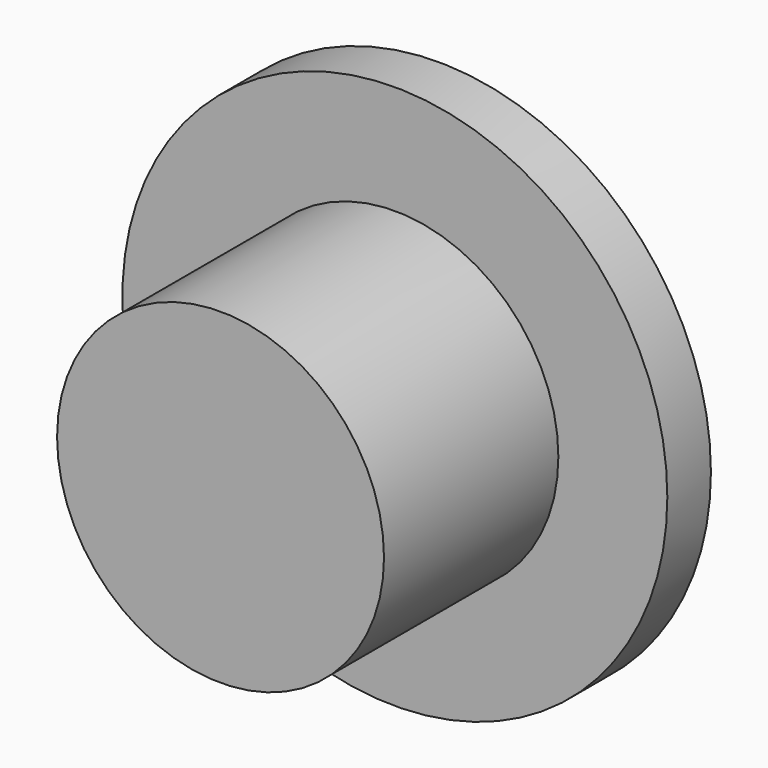
from build123d import *

# Parameters (mm, degrees)
F0_R     = 7.9375
F1_DEPTH = 1.5875
F2_R     = 4.7625
F3_DEPTH = 6.35
F5_DEPTH = 3.175


with BuildPart() as f1:
    # F0 (on Front) → F1 (new body)
    with BuildSketch(Plane.XZ):
        Circle(F0_R)
    extrude(amount=F1_DEPTH)

    # F2 (on face) → F3 (join)
    with BuildSketch(Plane.XZ.offset(1.5875)):
        Circle(F2_R)
    extrude(amount=F3_DEPTH)

    # F4 (on face) → F5 (cut)
    with BuildSketch(Plane(origin=(0, 0, 0), x_dir=(-1, 0, 0), z_dir=(0, 1, 0))):
        Polygon((3.187658, 1.810987), (0.025468, 3.666086), (-3.162189, 1.855099), (-3.187658, -1.810987), (-0.025468, -3.666086), (3.162189, -1.855099), align=None)
    extrude(amount=-F5_DEPTH, mode=Mode.SUBTRACT)


solid = f1.part
